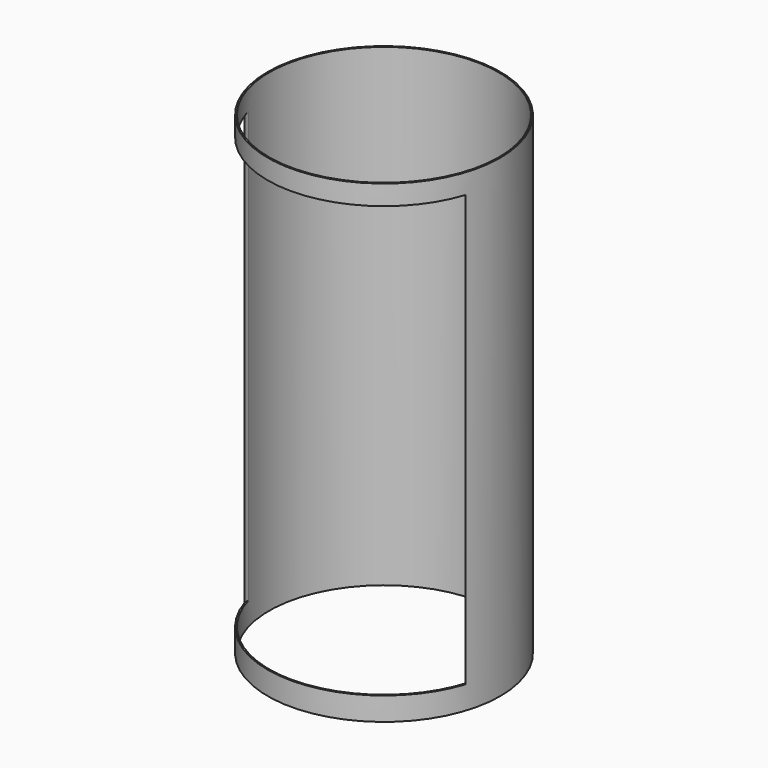
from build123d import *

# Parameters (mm, degrees)
F0_R     = 40.5
F1_DEPTH = 165
F2_W     = 77
F2_H     = 150
F3_DEPTH = 50.000001
F4_T     = -1.5
F5_R     = 40
F6_DEPTH = 165


with BuildPart() as f1:
    # F0 (on Top) → F1 (new body)
    with BuildSketch(Plane.XY):
        Circle(F0_R)
    extrude(amount=F1_DEPTH)

    # F2 (on Front) → F3 (cut)
    with BuildSketch(Plane.XZ):
        with Locations((0, 83.080945)):
            Rectangle(F2_W, F2_H)
    extrude(amount=F3_DEPTH, mode=Mode.SUBTRACT)

    # F4
    f4_openings = [f1.faces().sort_by_distance(p)[0] for p in [
        (0, 0, 165),
    ]]
    offset(amount=F4_T, openings=f4_openings)

    # F5 (on Top) → F6 (cut)
    with BuildSketch(Plane.XY):
        Circle(F5_R)
    extrude(amount=F6_DEPTH, mode=Mode.SUBTRACT)


solid = f1.part
